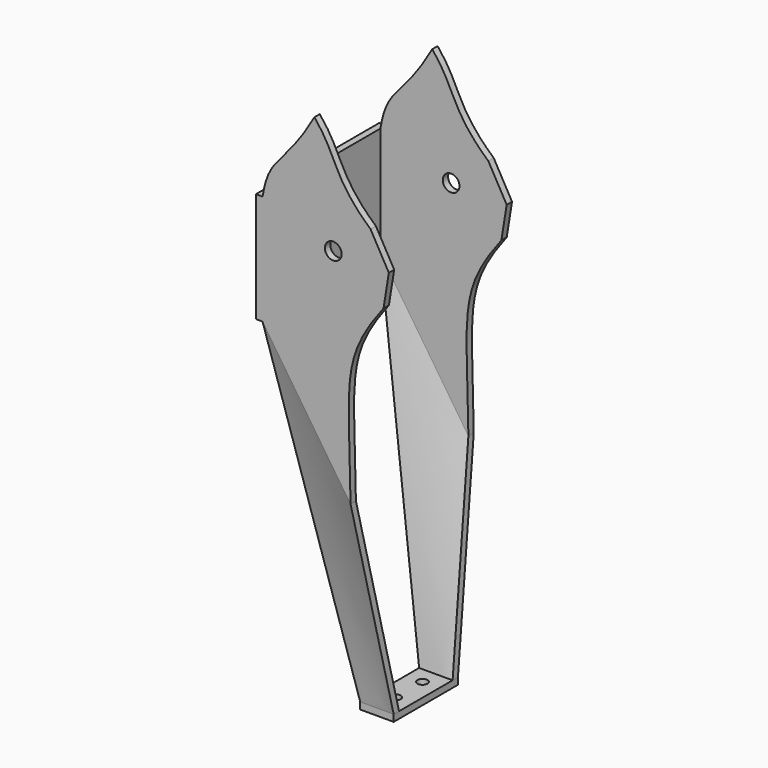
from build123d import *

# Parameters (mm, degrees)
F0_R      = 2.5
F0_W      = 1.9671103259
F0_H      = 32.8726123017
F1_DEPTH  = 23
F0_W_2    = 10
F0_H_2    = 2
F2_DEPTH  = 2
F3_DEPTH  = 21
F5_DEPTH  = 2
F3_FACE_W = 2
F3_FACE_H = 47.3760884154
F2_FACE_W = 10
F2_FACE_H = 2
F5_FACE_W = 10
F5_FACE_H = 2
F9_W      = 10
F9_H      = 22
F9_R      = 1.5
F10_DEPTH = 2


with BuildPart() as f1:
    # F0 (on Front) → F1 (new body, symmetric)
    with BuildSketch(Plane.XZ):
        with BuildLine():
            add(Edge.make_bspline(
                [(-41.9375598431, 64.1377046704), (-51.2842722237, 47.7368719876), (-55.3985677235, 50.4242394975), (-57.4354853918, 38.2308801777)],
                knots=[0, 0, 0, 0, 30.1885616022, 30.1885616022, 30.1885616022, 30.1885616022], degree=3))
            Line((-57.4354853918, 38.2308801777), (-57.4354853918, 5.358267876))
            Line((-57.4354853918, 5.358267876), (-31.1536770314, -34.0594984591))
            add(Edge.make_bspline(
                [(-21.304015945, 20.5783754124), (-34.3524827141, 3.69984575), (-31.5767975227, -1.8766191306), (-31.1536770314, -34.0594984591)],
                knots=[0, 0, 0, 0, 56.0586211891, 56.0586211891, 56.0586211891, 56.0586211891], degree=3))
            Line((-21.304015945, 20.5783754124), (-19.717078656, 30.4542761296))
            Line((-19.717078656, 30.4542761296), (-25.1840222627, 40.1536934078))
            add(Edge.make_bspline(
                [(-41.9375598431, 64.1377046704), (-34.8834395409, 55.6727573276), (-36.6469696164, 50.3821708262), (-25.1840222627, 40.1536934078)],
                knots=[0, 0, 0, 0, 29.2560048145, 29.2560048145, 29.2560048145, 29.2560048145], degree=3))
        make_face()
        with Locations((-36.313764751, 30.7701863348)):
            Circle(F0_R, mode=Mode.SUBTRACT)
        with Locations((-58.4190405548, 21.7945740269)):
            Rectangle(F0_W, F0_H)
    extrude(amount=F1_DEPTH, both=True)

    # F0 (on Front) → F3 (cut, symmetric)
    with BuildSketch(Plane.XZ):
        with BuildLine():
            add(Edge.make_bspline(
                [(-41.9375598431, 64.1377046704), (-51.2842722237, 47.7368719876), (-55.3985677235, 50.4242394975), (-57.4354853918, 38.2308801777)],
                knots=[0, 0, 0, 0, 30.1885616022, 30.1885616022, 30.1885616022, 30.1885616022], degree=3))
            Line((-57.4354853918, 38.2308801777), (-57.4354853918, 5.358267876))
            Line((-57.4354853918, 5.358267876), (-31.1536770314, -34.0594984591))
            add(Edge.make_bspline(
                [(-21.304015945, 20.5783754124), (-34.3524827141, 3.69984575), (-31.5767975227, -1.8766191306), (-31.1536770314, -34.0594984591)],
                knots=[0, 0, 0, 0, 56.0586211891, 56.0586211891, 56.0586211891, 56.0586211891], degree=3))
            Line((-21.304015945, 20.5783754124), (-19.717078656, 30.4542761296))
            Line((-19.717078656, 30.4542761296), (-25.1840222627, 40.1536934078))
            add(Edge.make_bspline(
                [(-41.9375598431, 64.1377046704), (-34.8834395409, 55.6727573276), (-36.6469696164, 50.3821708262), (-25.1840222627, 40.1536934078)],
                knots=[0, 0, 0, 0, 29.2560048145, 29.2560048145, 29.2560048145, 29.2560048145], degree=3))
        make_face()
        with Locations((-36.313764751, 30.7701863348)):
            Circle(F0_R, mode=Mode.SUBTRACT)
    extrude(amount=F3_DEPTH, both=True, mode=Mode.SUBTRACT)



with BuildPart() as f2:
    # F0 (on Front) → F2 (new body)
    with BuildSketch(Plane.XZ):
        with Locations((-32.0685834799, -93.5112637015)):
            Rectangle(F0_W_2, F0_H_2)
    extrude(amount=F2_DEPTH)


with BuildPart() as f2_1:
    # F4: moved
    add(f2.part.moved(Location((0, -10, 0))))


with BuildPart() as f5:
    # F0 (on Front) → F5 (new body)
    with BuildSketch(Plane.XZ):
        with Locations((-32.0685834799, -93.5112637015)):
            Rectangle(F0_W_2, F0_H_2)
    extrude(amount=-F5_DEPTH)


with BuildPart() as f5_1:
    # F6: moved
    add(f5.part.moved(Location((0, 10, 0))))


with BuildPart() as f1_1:
    add(f1.part)

    add(f2_1.part)  # F7 merges F2
    # F3_face (on face) → F7 section 0
    with BuildSketch(Plane(origin=(-44.2945812116, -22, -14.3506152915), x_dir=(0, -1, 0), z_dir=(-0.8320181689, 0, -0.5547483813))):
        Rectangle(F3_FACE_W, F3_FACE_H)
    # F2_face (on face) → F7 section 1
    with BuildSketch(Plane(origin=(-32.0685834799, -11, -92.5112637015), x_dir=(1, 0, 0), z_dir=(0, 0, 1))):
        Rectangle(F2_FACE_W, F2_FACE_H)
    loft()


    add(f5_1.part)  # F8 merges F5
    # F3_face (on face) → F8 section 0
    with BuildSketch(Plane(origin=(-44.2945812116, -22, -14.3506152915), x_dir=(0, -1, 0), z_dir=(-0.8320181689, 0, -0.5547483813))):
        with Locations((-44, 0)):
            Rectangle(F3_FACE_W, F3_FACE_H)
    # F5_face (on face) → F8 section 1
    with BuildSketch(Plane(origin=(-32.0685834799, 11, -92.5112637015), x_dir=(1, 0, 0), z_dir=(0, 0, 1))):
        Rectangle(F5_FACE_W, F5_FACE_H)
    loft()

    # F9 (on face) → F10 (join)
    with BuildSketch(Plane(origin=(0, 0, -94.5112637015), x_dir=(1, 0, 0), z_dir=(0, 0, -1))):
        with Locations((-32.0685834799, -1)):
            Rectangle(F9_W, F9_H)
        with Locations((-32.0685834799, -5)):
            Circle(F9_R, mode=Mode.SUBTRACT)
        with Locations((-32.0685834799, 5)):
            Circle(F9_R, mode=Mode.SUBTRACT)
    extrude(amount=-F10_DEPTH)


solid = f1_1.part
